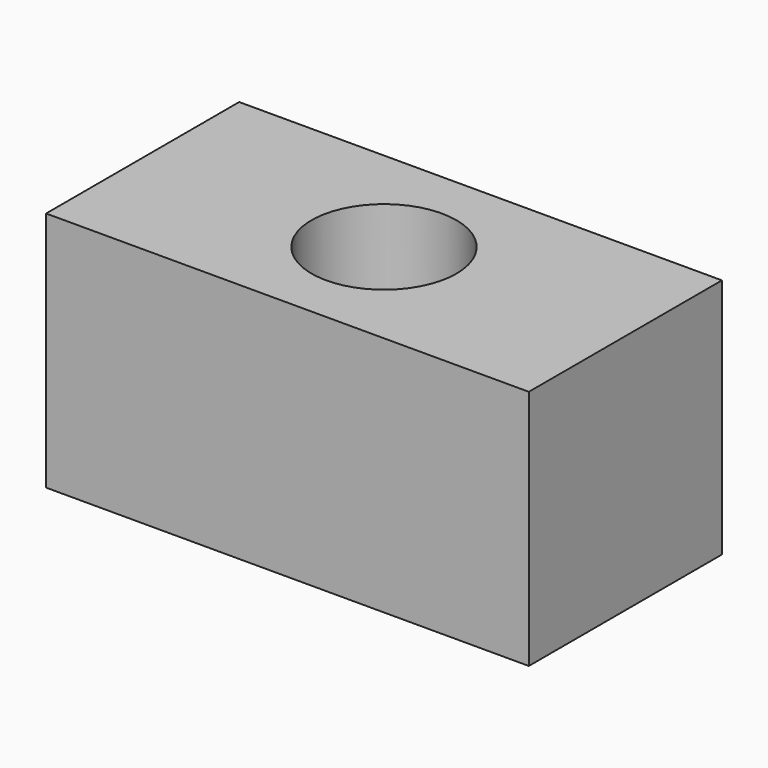
from build123d import *

# Parameters (mm, degrees)
F0_W     = 100
F0_H     = 50
F1_DEPTH = 50
F2_R     = 15
F3_DEPTH = 50
F4_DEPTH = 50


with BuildPart() as f1:
    # F0 (on Top) → F1 (new body)
    with BuildSketch(Plane.XY):
        Rectangle(F0_W, F0_H)
    extrude(amount=F1_DEPTH)

    # F2 (on face) → F3 (cut)
    with BuildSketch(Plane.XY.offset(50)):
        Circle(F2_R)
    extrude(amount=F3_DEPTH, mode=Mode.SUBTRACT)

    # F2 (on face) → F4 (cut)
    with BuildSketch(Plane.XY.offset(50)):
        Circle(F2_R)
    extrude(amount=-F4_DEPTH, mode=Mode.SUBTRACT)


solid = f1.part
